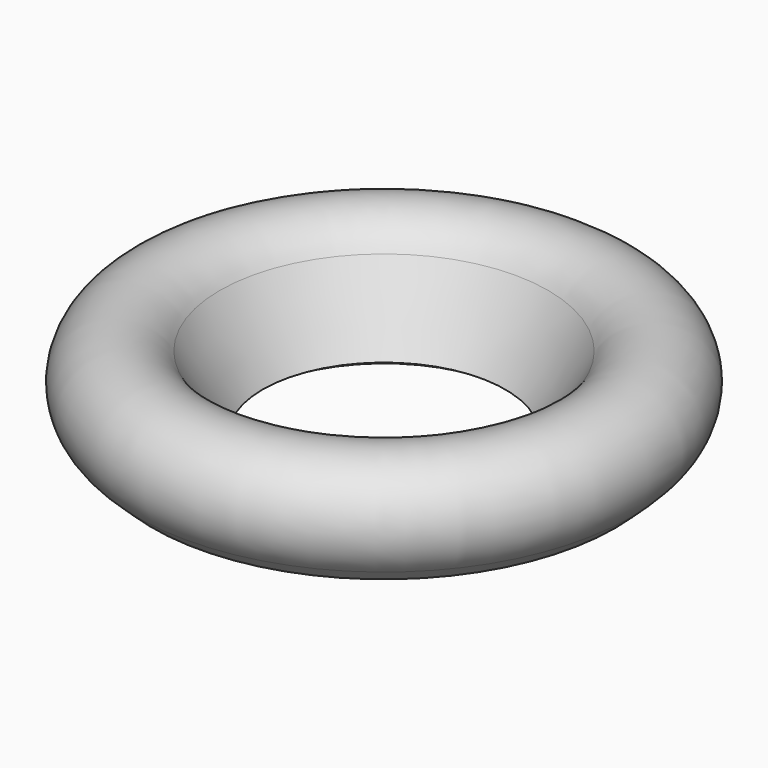
from build123d import *


with BuildPart() as f1:
    # F0 (on Front) → F1 (revolve)
    with BuildSketch(Plane.XZ):
        with BuildLine():
            Line((-29.476234, 0), (-18.72706, 0))
            Line((-18.72706, 0), (-22.981947, 5.070778))
            ThreePointArc((-22.981947, 5.070778), (-23.850747, 5.422697), (-24.62926, 4.900607))
            ThreePointArc((-24.62926, 4.900607), (-34.966565, 7.174021), (-24.970897, 10.65467))
            Line((-24.970897, 10.65467), (-17.86353, 0.504298))
            Line((-17.86353, 0.504298), (-17, 1.008595))
            Line((-17, 1.008595), (-22.99976, 11.282233))
            ThreePointArc((-22.99976, 11.282233), (-34.159664, 13.357942), (-34.591221, 2.014847))
            Line((-34.591221, 2.014847), (-32.430562, 0))
            Line((-32.430562, 0), (-29.476234, 0))
        make_face()
    revolve(axis=Axis((0, 0, 28.324338), (0, 0, 1)))


solid = f1.part
